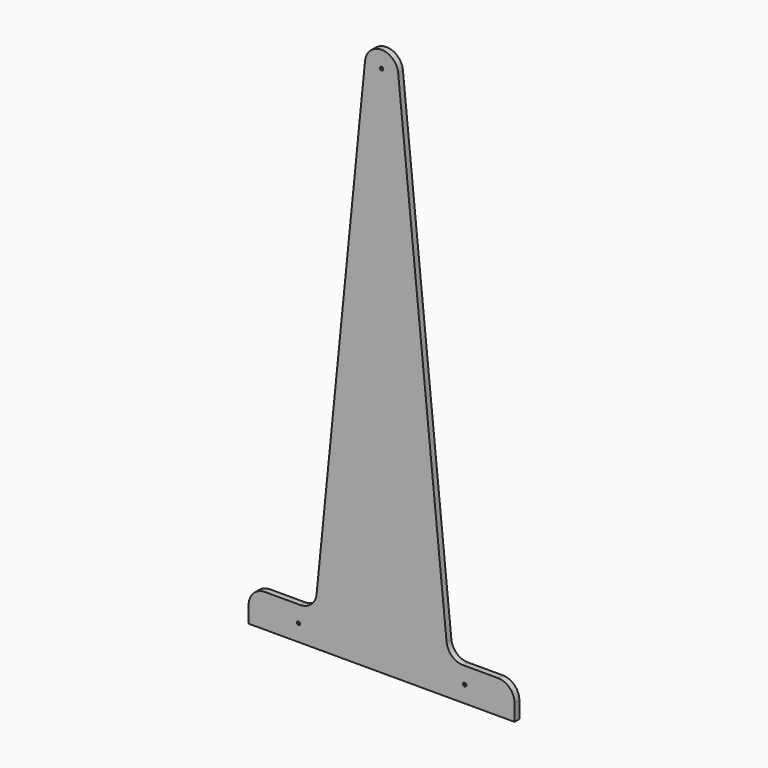
from build123d import *

# Parameters (mm, degrees)
F1_R     = 10
F1_R_2   = 5
F2_DEPTH = 18
F3_DEPTH = 12


with BuildPart() as f2:
    # F1 (on Front) → F2 (new body)
    with BuildSketch(Plane.XZ):
        with BuildLine():
            Line((-400, 0), (0, 0))
            Line((0, 0), (400, 0))
            Line((400, 0), (400, 50))
            ThreePointArc((400, 50), (385.3553390593, 85.3553390593), (350, 100))
            Line((350, 100), (245.256839525, 100))
            ThreePointArc((245.256839525, 100), (211.7035324399, 112.9301256591), (195.5041644303, 145.032976654))
            Line((195.5041644303, 145.032976654), (49.7526750947, 1604.967023346))
            ThreePointArc((49.7526750947, 1604.967023346), (0, 1650), (-49.7526750947, 1604.967023346))
            Line((-49.7526750947, 1604.967023346), (-195.5041644303, 145.032976654))
            ThreePointArc((-195.5041644303, 145.032976654), (-211.7035324399, 112.9301256591), (-245.256839525, 100))
            Line((-245.256839525, 100), (-350, 100))
            ThreePointArc((-350, 100), (-385.3553390593, 85.3553390593), (-400, 50))
            Line((-400, 50), (-400, 0))
        make_face()
        with Locations((-250, 50)):
            Circle(F1_R, mode=Mode.SUBTRACT)
        with Locations((250, 50)):
            Circle(F1_R, mode=Mode.SUBTRACT)
        with Locations((0, 1600)):
            Circle(F1_R, mode=Mode.SUBTRACT)
        with Locations((0, 1600)):
            Circle(F1_R)
        with Locations((0, 1600)):
            Circle(F1_R_2, mode=Mode.SUBTRACT)
        with Locations((-250, 50)):
            Circle(F1_R)
        with Locations((-250, 50)):
            Circle(F1_R_2, mode=Mode.SUBTRACT)
        with Locations((250, 50)):
            Circle(F1_R)
        with Locations((250, 50)):
            Circle(F1_R_2, mode=Mode.SUBTRACT)
    extrude(amount=F2_DEPTH)

    # F1 (on Front) → F3 (cut)
    with BuildSketch(Plane.XZ):
        with Locations((0, 1600)):
            Circle(F1_R)
        with Locations((0, 1600)):
            Circle(F1_R_2, mode=Mode.SUBTRACT)
        with Locations((250, 50)):
            Circle(F1_R)
        with Locations((250, 50)):
            Circle(F1_R_2, mode=Mode.SUBTRACT)
        with Locations((-250, 50)):
            Circle(F1_R)
        with Locations((-250, 50)):
            Circle(F1_R_2, mode=Mode.SUBTRACT)
    extrude(amount=F3_DEPTH, mode=Mode.SUBTRACT)


solid = f2.part
